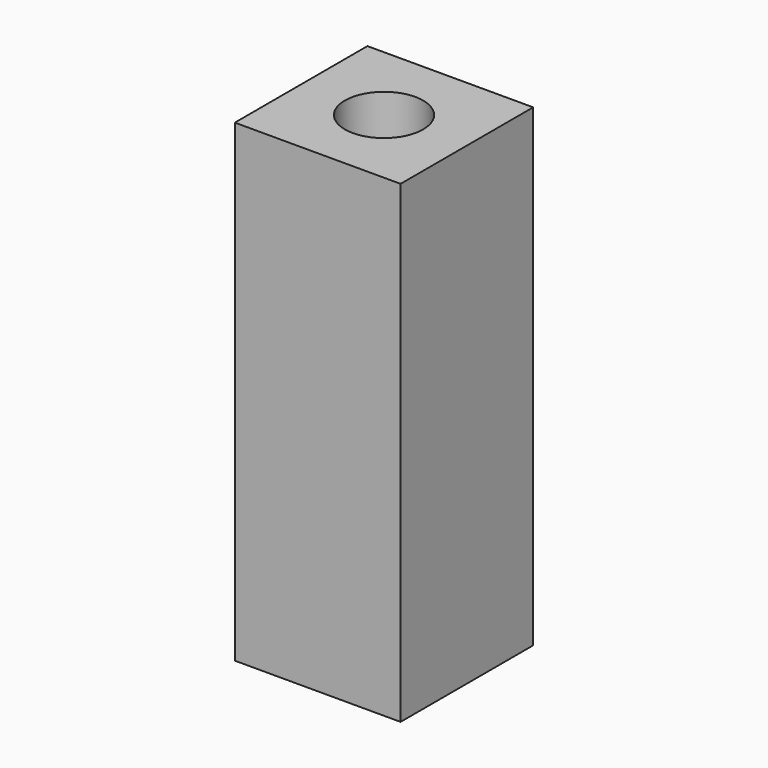
from build123d import *

# Parameters (mm, degrees)
F0_W     = 6.35
F0_H     = 6.35
F1_DEPTH = 18.15
F2_D     = 3
F2_DEPTH = 7
F2_TIP   = 0.9012909285
F4_D     = 3
F4_DEPTH = 7
F4_TIP   = 0.9012909285


with BuildPart() as f1:
    # F0 (on Top) → F1 (new body)
    with BuildSketch(Plane.XY):
        Rectangle(F0_W, F0_H)
    extrude(amount=F1_DEPTH)

    # F2
    with Locations(Plane(origin=(0, 0, 0), x_dir=(1, 0, 0), z_dir=(0, 0, -1))):
        with Locations((0, 0)):
            Hole(F2_D / 2, depth=F2_DEPTH)
            with Locations((0, 0, -(F2_DEPTH + F2_TIP / 2))):  # 118° drill point
                Cone(0, F2_D / 2, F2_TIP, mode=Mode.SUBTRACT)

    # F4
    with Locations(Plane.XY.offset(18.15)):
        with Locations((0, 0)):
            Hole(F4_D / 2, depth=F4_DEPTH)
            with Locations((0, 0, -(F4_DEPTH + F4_TIP / 2))):  # 118° drill point
                Cone(0, F4_D / 2, F4_TIP, mode=Mode.SUBTRACT)


solid = f1.part
